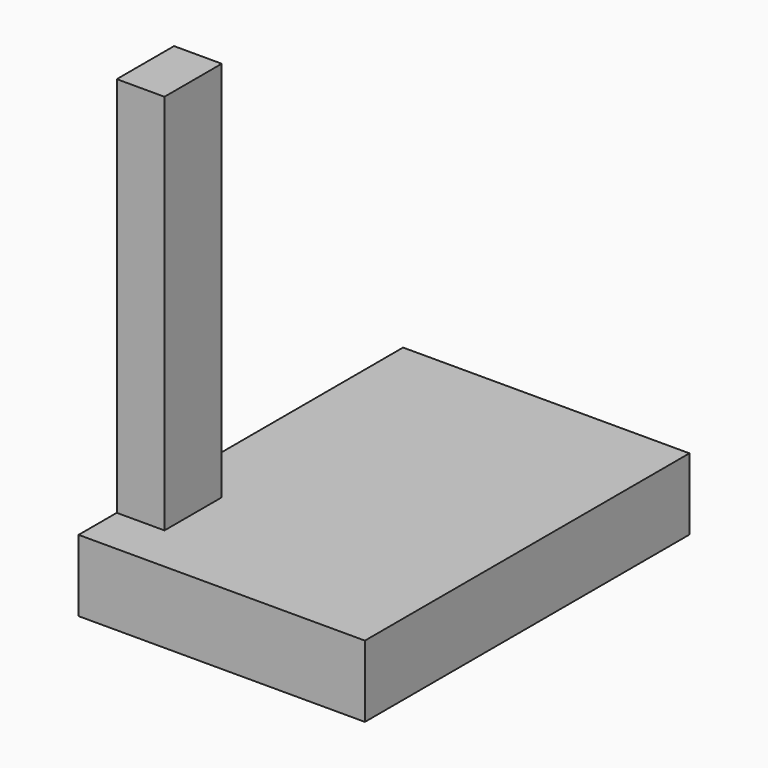
from build123d import *

# Parameters (mm, degrees)
F1_DEPTH      = 76.2
F2_W          = 304.8
F2_H          = 76.2
F3_DEPTH      = 304.8
F3_DEPTH_BACK = 127


with BuildPart() as f1:
    # F0 (on Front) → F1 (new body)
    with BuildSketch(Plane.XZ):
        Polygon((-152.4, 38.1), (-152.4, -38.1), (152.4, -38.1), (152.4, 38.1), (-101.6, 38.1), (-101.6, 444.5), (-152.4, 444.5), align=None)
    extrude(amount=F1_DEPTH)

    # F2 (on face) → F3 (join, two sides)
    with BuildSketch(Plane(origin=(0, 0, 0), x_dir=(-1, 0, 0), z_dir=(0, 1, 0))) as f3_sk:
        Rectangle(F2_W, F2_H)
    extrude(amount=F3_DEPTH)
    extrude(f3_sk.sketch, amount=-F3_DEPTH_BACK)


solid = f1.part
